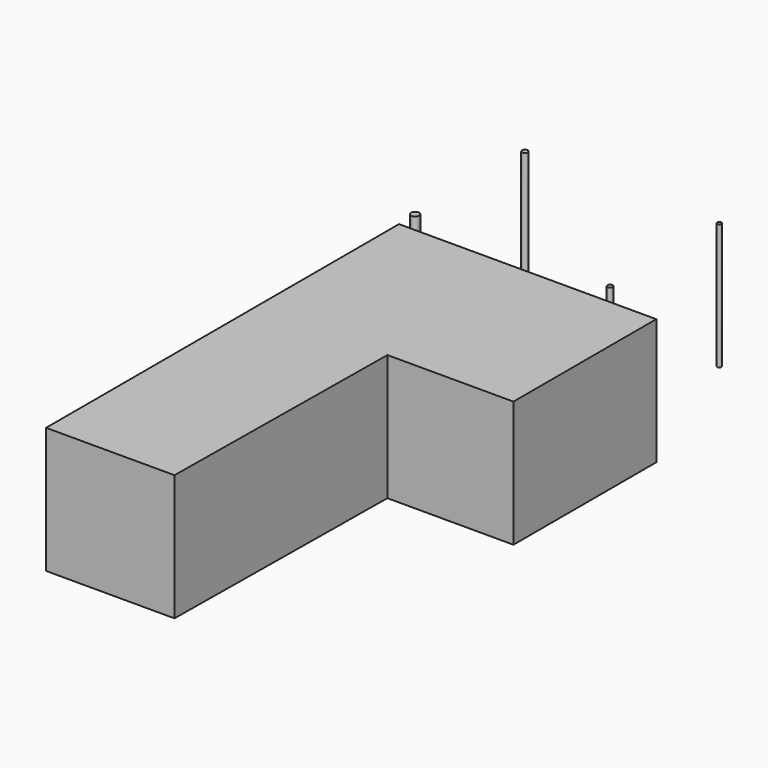
from build123d import *

# Parameters (mm, degrees)
F1_DEPTH = 304.8
F2_R     = 9.810482
F2_R_2   = 6.378155
F2_R_3   = 4.98051
F2_R_4   = 7.078036
F3_DEPTH = 304.8


with BuildPart() as f1:
    # F0 (on Top) → F1 (new body)
    with BuildSketch(Plane.XY):
        Polygon((311.803085, 301.612325), (-310.496915, 301.612325), (-310.496915, -765.187675), (0, -765.149057), (7.003085, -130.187675), (311.803085, -130.187675), align=None)
    extrude(amount=F1_DEPTH)


with BuildPart() as f3:
    # F2 (on face) → F3 (new body)
    with BuildSketch(Plane.XY.offset(304.8)):
        with Locations((-312.049458, 352.412325)):
            Circle(F2_R)
        with Locations((159.403085, 352.412325)):
            Circle(F2_R_2)
        with Locations((159.403085, 682.612325)):
            Circle(F2_R_3)
        with Locations((-310.496915, 682.612325)):
            Circle(F2_R_4)
    extrude(amount=-F3_DEPTH)


solid = Compound([f1.part, f3.part])
